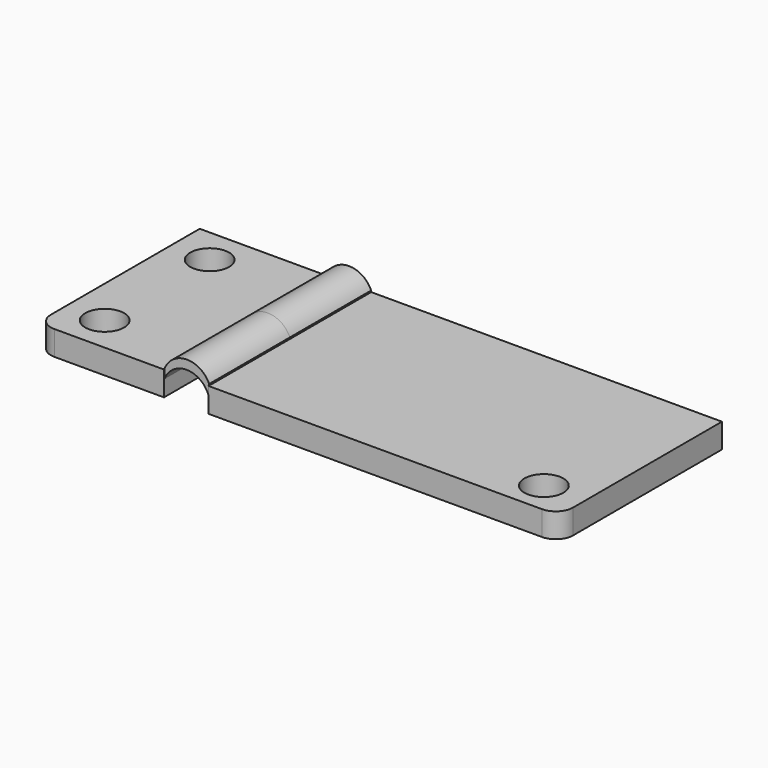
from build123d import *

# Parameters (mm, degrees)
F0_W     = 36.730407
F0_H     = 58.828374
F0_R     = 5.630318
F0_W_2   = 101.531213
F1_DEPTH = 7.1
F3_DEPTH = 29.2
F4_DEPTH = 29.4
F5_R     = 5


with BuildPart() as f1:
    # F0 (on Top) → F1 (new body)
    with BuildSketch(Plane.XY):
        with Locations((-25.532108, -3e-06)):
            Rectangle(F0_W, F0_H)
        with Locations((-32.670446, -18.98868)):
            Circle(F0_R, mode=Mode.SUBTRACT)
        with Locations((-32.670446, 18.98868)):
            Circle(F0_R, mode=Mode.SUBTRACT)
        with Locations((56.439411, -3e-06)):
            Rectangle(F0_W_2, F0_H)
        with Locations((95.334463, -20.145353)):
            Circle(F0_R, mode=Mode.SUBTRACT)
    extrude(amount=F1_DEPTH)

    # F5
    f5_edges = [f1.edges().sort_by_distance(p)[0] for p in [
        (-43.897312, -29.41419, 3.55),
        (107.205018, -29.41419, 3.55),
    ]]
    fillet(f5_edges, radius=F5_R)


with BuildPart() as f3:
    # F2 (on Front) → F3 (new body)
    with BuildSketch(Plane.XZ):
        with BuildLine():
            Line((5.669345, 4.191866), (5.735652, 7.540484))
            ThreePointArc((5.735652, 7.540484), (-0.908968, 11.655184), (-7.254369, 7.092553))
            Line((-7.254369, 7.092553), (-7.254369, 4.447771))
            ThreePointArc((-7.254369, 4.447771), (-0.699499, 9.017157), (5.669345, 4.191866))
        make_face()
        with BuildLine():
            ThreePointArc((5.586341, 0), (5.959257, 2.08937), (5.669345, 4.191866))
            Line((5.669345, 4.191866), (5.586341, 0))
        make_face()
        with BuildLine():
            Line((-7.254369, 0), (-7.254369, 4.447771))
            ThreePointArc((-7.254369, 4.447771), (-7.628617, 2.223886), (-7.254369, 0))
        make_face()
    extrude(amount=F3_DEPTH)


with BuildPart() as f4:
    # F2 (on Front) → F4 (new body)
    with BuildSketch(Plane.XZ):
        with BuildLine():
            Line((5.669345, 4.191866), (5.735652, 7.540484))
            ThreePointArc((5.735652, 7.540484), (-0.908968, 11.655184), (-7.254369, 7.092553))
            Line((-7.254369, 7.092553), (-7.254369, 4.447771))
            ThreePointArc((-7.254369, 4.447771), (-0.699499, 9.017157), (5.669345, 4.191866))
        make_face()
        with BuildLine():
            ThreePointArc((5.586341, 0), (5.959257, 2.08937), (5.669345, 4.191866))
            Line((5.669345, 4.191866), (5.586341, 0))
        make_face()
        with BuildLine():
            Line((-7.254369, 0), (-7.254369, 4.447771))
            ThreePointArc((-7.254369, 4.447771), (-7.628617, 2.223886), (-7.254369, 0))
        make_face()
    extrude(amount=-F4_DEPTH)


solid = Compound([f1.part, f3.part, f4.part])
